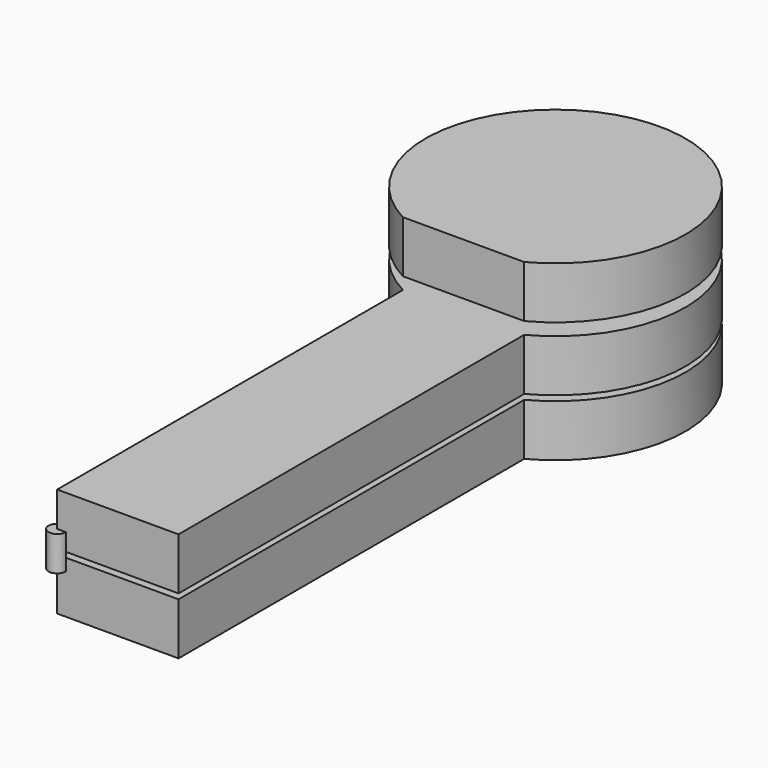
from build123d import *

# Parameters (mm, degrees)
F2_R          = 5.05
F3_DEPTH      = 3
F0_R          = 4.5
F4_DEPTH      = 3
F5_DEPTH      = 7
F8_DEPTH      = 3
F9_DEPTH      = 1
F9_DEPTH_BACK = 1


with BuildPart() as f3:
    # F2 (on offset) → F3 (new body)
    with BuildSketch(Plane.XY.offset(3.3)):
        with BuildLine():
            ThreePointArc((-3, -31.5561521365), (-3.1464466094, -31.2025987459), (-3.5, -31.0561521365))
            Line((-3.5, -31.0561521365), (-3.5, -31.5561521365))
            Line((-3.5, -31.5561521365), (-3, -31.5561521365))
        make_face()
        with BuildLine():
            Line((3.5, -6.6332495807), (3.5, -5.5217424324))
            Line((3.5, -5.5217424324), (-3.5, -5.5217424324))
            Line((-3.5, -5.5217424324), (-3.5, -6.6332495807))
            Line((-3.5, -6.6332495807), (-3.5, -31.0561521365))
            ThreePointArc((-3.5, -31.0561521365), (-3.1464466094, -31.2025987459), (-3, -31.5561521365))
            Line((-3, -31.5561521365), (3.5, -31.5561521365))
            Line((3.5, -31.5561521365), (3.5, -6.6332495807))
        make_face()
        with BuildLine():
            Line((-3.5, -5.5217424324), (3.5, -5.5217424324))
            Line((3.5, -5.5217424324), (3.5, -6.6332495807))
            ThreePointArc((3.5, -6.6332495807), (0, 7.5), (-3.5, -6.6332495807))
            Line((-3.5, -6.6332495807), (-3.5, -5.5217424324))
        make_face()
        Circle(F2_R, mode=Mode.SUBTRACT)
        with BuildLine():
            Line((3.5, -6.6332495807), (3.5, -5.5217424324))
            Line((3.5, -5.5217424324), (-3.5, -5.5217424324))
            Line((-3.5, -5.5217424324), (-3.5, -6.6332495807))
            Line((-3.5, -6.6332495807), (-3.5, -31.0561521365))
            ThreePointArc((-3.5, -31.0561521365), (-3.1464466094, -31.2025987459), (-3, -31.5561521365))
            Line((-3, -31.5561521365), (3.5, -31.5561521365))
            Line((3.5, -31.5561521365), (3.5, -6.6332495807))
        make_face()
    extrude(amount=F3_DEPTH)



with BuildPart() as f4:
    # F0 (on Top) → F4 (new body)
    with BuildSketch(Plane.XY):
        Polygon((3.5, -31.5561521365), (3.5, -6.6332495807), (3.5, -5.5217424324), (-3.5, -5.5217424324), (-3.5, -6.6332495807), (-3.5, -31.5561521365), align=None)
        with BuildLine():
            Line((3.5, -5.5217424324), (3.5, -6.6332495807))
            ThreePointArc((3.5, -6.6332495807), (0, 7.5), (-3.5, -6.6332495807))
            Line((-3.5, -6.6332495807), (-3.5, -5.5217424324))
            Line((-3.5, -5.5217424324), (3.5, -5.5217424324))
        make_face()
        Circle(F0_R, mode=Mode.SUBTRACT)
        Circle(F0_R)
    extrude(amount=F4_DEPTH)

    # F0 (on Top) → F5 (join)
    with BuildSketch(Plane.XY):
        Circle(F0_R)
    extrude(amount=F5_DEPTH)

    # F7 (on offset) → F8 (join)
    with BuildSketch(Plane.XY.offset(7)):
        with BuildLine():
            Line((-3.5, -6.6332495807), (3.5, -6.6332495807))
            ThreePointArc((3.5, -6.6332495807), (0, 7.5), (-3.5, -6.6332495807))
        make_face()
    extrude(amount=F8_DEPTH)


with BuildPart() as f3_1:
    add(f3.part)

    add(f4.part)  # F9 merges F4
    # F2 (on offset) → F9 (join, two sides)
    with BuildSketch(Plane.XY.offset(3.3)) as f9_sk:
        with BuildLine():
            Line((-3.5, -31.5561521365), (-3.5, -31.0561521365))
            ThreePointArc((-3.5, -31.0561521365), (-3.8535533906, -31.9097055271), (-3, -31.5561521365))
            Line((-3, -31.5561521365), (-3.5, -31.5561521365))
        make_face()
    extrude(amount=F9_DEPTH)
    extrude(f9_sk.sketch, amount=-F9_DEPTH_BACK)


solid = f3_1.part
